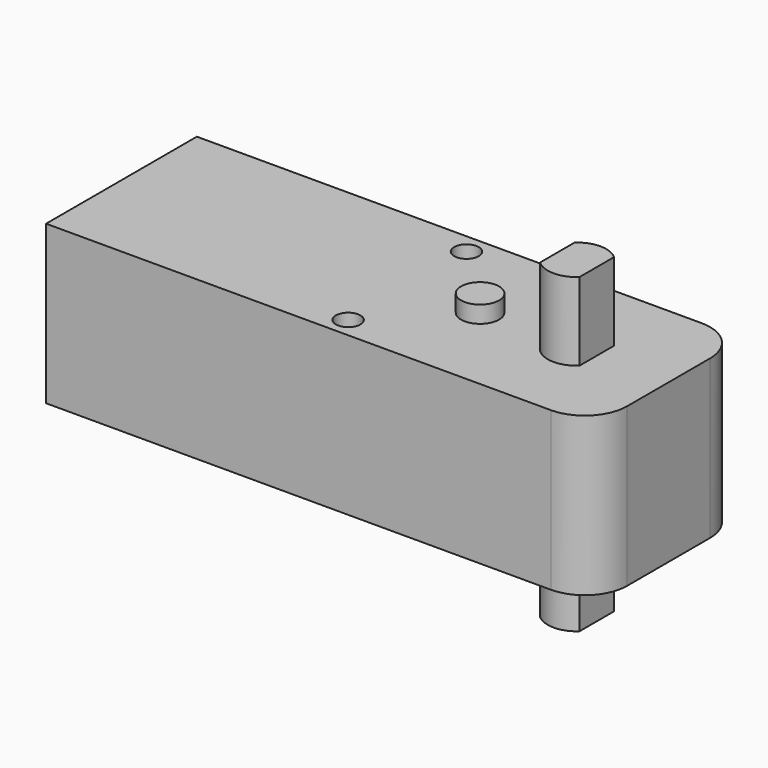
from build123d import *

# Parameters (mm, degrees)
F0_R     = 1.45
F0_R_2   = 2.24
F0_R_3   = 4.865
F0_R_4   = 3.415
F1_DEPTH = 18.64
F3_DEPTH = 9.2
F4_R     = 2.24
F5_DEPTH = 2
F6_W     = 4.65
F6_H     = 5.0977936404
F7_DEPTH = 8.93


with BuildPart() as f1:
    # F0 (on Top) → F1 (new body)
    with BuildSketch(Plane.XY):
        with BuildLine():
            Line((-53.71, -11.11), (5.8, -11.11))
            ThreePointArc((5.8, -11.11), (9.3355339059, -9.6455339059), (10.8, -6.11))
            Line((10.8, -6.11), (10.8, 6.11))
            ThreePointArc((10.8, 6.11), (9.3355339059, 9.6455339059), (5.8, 11.11))
            Line((5.8, 11.11), (-53.71, 11.11))
            Line((-53.71, 11.11), (-53.71, -11.11))
        make_face()
        with Locations((-20.01, -8.72)):
            Circle(F0_R, mode=Mode.SUBTRACT)
        with Locations((-11.43, 0)):
            Circle(F0_R_2, mode=Mode.SUBTRACT)
        Circle(F0_R_3, mode=Mode.SUBTRACT)
        with Locations((-20.01, 8.72)):
            Circle(F0_R, mode=Mode.SUBTRACT)
        Circle(F0_R_3)
        Circle(F0_R_4, mode=Mode.SUBTRACT)
        Circle(F0_R_4)
        with Locations((-11.43, 0)):
            Circle(F0_R_2)
    extrude(amount=F1_DEPTH)

    # F2 (on face) → F3 (join)
    with BuildSketch(Plane.XY.offset(18.64)):
        with BuildLine():
            Line((-2.325, 2.5488968202), (-2.325, -2.5488968202))
            ThreePointArc((-2.325, -2.5488968202), (0, -3.45), (2.325, -2.5488968202))
            Line((2.325, -2.5488968202), (2.325, 2.5488968202))
            Line((2.325, 2.5488968202), (-2.325, 2.5488968202))
        make_face()
        with BuildLine():
            ThreePointArc((2.325, 2.5488968202), (0, 3.45), (-2.325, 2.5488968202))
            Line((-2.325, 2.5488968202), (2.325, 2.5488968202))
        make_face()
    extrude(amount=F3_DEPTH)

    # F4 (on face) → F5 (join)
    with BuildSketch(Plane.XY.offset(18.64)):
        with Locations((-11.43, 0)):
            Circle(F4_R)
    extrude(amount=F5_DEPTH)

    # F6 (on face) → F7 (join)
    with BuildSketch(Plane.XY):
        with BuildLine():
            Line((-2.325, 2.5488968202), (2.325, 2.5488968202))
            ThreePointArc((2.325, 2.5488968202), (0, 3.45), (-2.325, 2.5488968202))
        make_face()
        with BuildLine():
            ThreePointArc((-2.325, -2.5488968202), (0, -3.45), (2.325, -2.5488968202))
            Line((2.325, -2.5488968202), (-2.325, -2.5488968202))
        make_face()
        Rectangle(F6_W, F6_H)
    extrude(amount=-F7_DEPTH)


solid = f1.part
